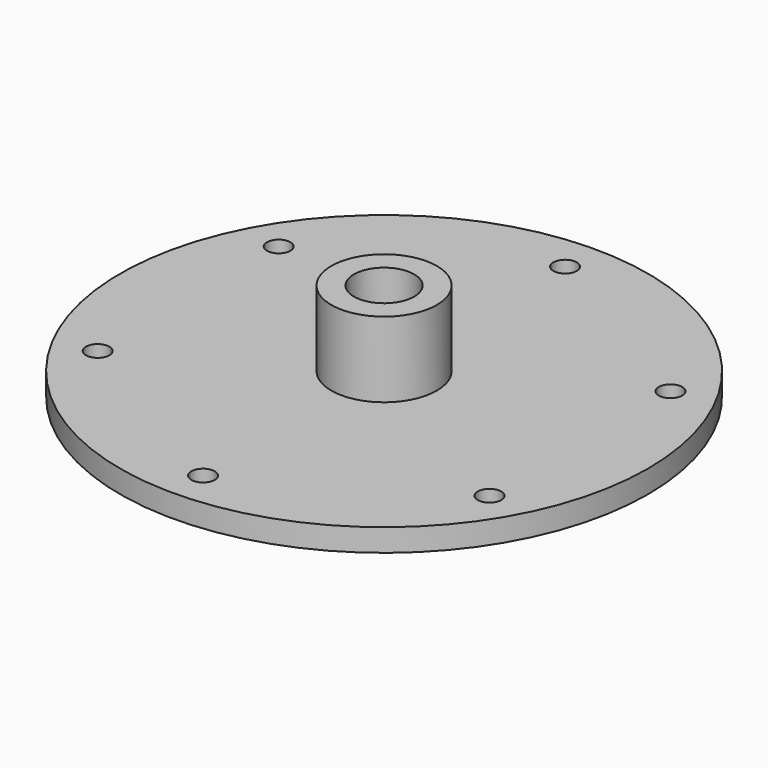
from build123d import *

# Parameters (mm, degrees)
F0_R     = 35
F1_DEPTH = 3
F2_R     = 1.55
F3_DEPTH = 3.001
F4_R     = 7
F5_DEPTH = 10
F6_R     = 4
F7_DEPTH = 13.001


with BuildPart() as f1:
    # F0 (on Top) → F1 (new body)
    with BuildSketch(Plane.XY):
        Circle(F0_R)
    extrude(amount=F1_DEPTH)

    # F2 (on face) → F3 (cut, through all)
    with BuildSketch(Plane.XY.offset(3)):
        with Locations((0, 30)):
            Circle(F2_R)
        with Locations((-25.980762, 15)):
            Circle(F2_R)
        with Locations((-25.980762, -15)):
            Circle(F2_R)
        with Locations((25.980762, 15)):
            Circle(F2_R)
        with Locations((25.980762, -15)):
            Circle(F2_R)
        with Locations((0, -30)):
            Circle(F2_R)
    extrude(amount=-F3_DEPTH, mode=Mode.SUBTRACT)

    # F4 (on face) → F5 (join)
    with BuildSketch(Plane.XY.offset(3)):
        Circle(F4_R)
    extrude(amount=F5_DEPTH)

    # F6 (on face) → F7 (cut, through all)
    with BuildSketch(Plane.XY.offset(13)):
        Circle(F6_R)
    extrude(amount=-F7_DEPTH, mode=Mode.SUBTRACT)


solid = f1.part
